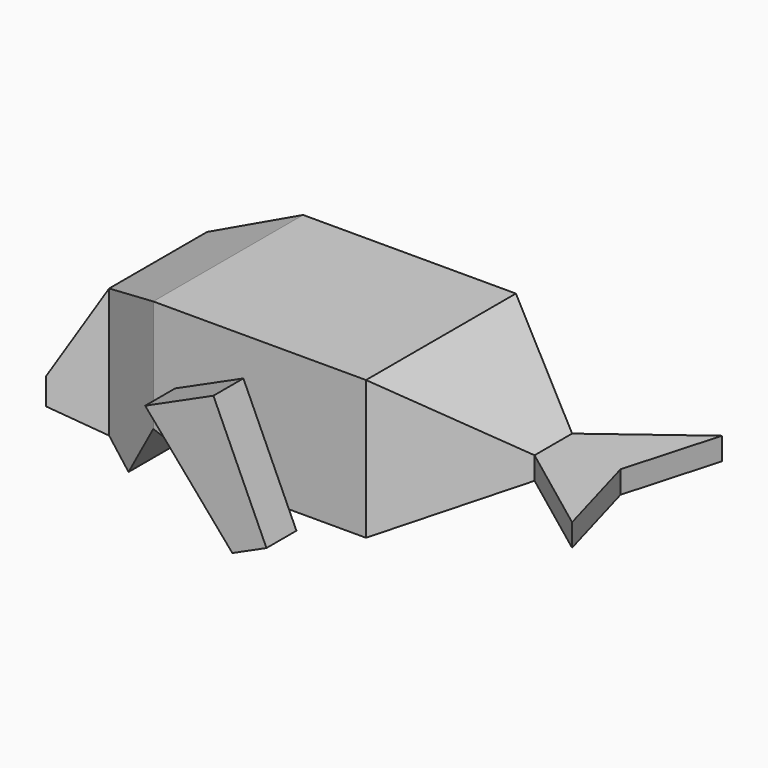
from build123d import *

# Parameters (mm, degrees)
F1_DEPTH  = 25
F2_W      = 220.380068
F2_H      = 103.423982
F3_DEPTH  = 49.4
F6_DEPTH  = 10
F8_DEPTH  = 25
F10_DEPTH = 10
F13_DEPTH = 31.3


with BuildPart() as f1:
    # F0 (on Front) → F1 (new body, symmetric)
    with BuildSketch(Plane.XZ):
        Polygon((18.391414, 18.535092), (-18.391414, 18.535092), (-38.391414, 18.535092), (-57.109501, 11.977759), (-71.366541, -15.086461), (-48.882552, -26.930701), (-38.391414, -11.416442), (-18.391414, -18.535092), (18.391414, -18.535092), (48.391414, -3), (73.391414, -3), (73.391414, 3), (48.391414, 3), align=None)
    extrude(amount=F1_DEPTH, both=True)

    # F2 (on face) → F3 (cut)
    with BuildSketch(Plane.XY.offset(18.535092)):
        with Locations((15.868798, -6.721016)):
            Rectangle(F2_W, F2_H)
        Polygon((-57.109501, -16.336106), (-71.366541, -25), (-71.366541, 25), (-57.109501, 16.336106), (-38.391414, 25), (18.391414, 25), (48.391414, 6.266106), (73.391414, 25), (66.329263, 0), (73.391414, -25), (48.391414, -6.266106), (18.391414, -25), (-38.391414, -25), align=None, mode=Mode.SUBTRACT)
    extrude(amount=-F3_DEPTH, mode=Mode.SUBTRACT)

    # F5 (on face) → F6 (join)
    with BuildSketch(Plane.XZ.offset(25)):
        Polygon((-14.344576, 8.269234), (-32.555006, 0), (-18.391414, -31.190934), (-0.180983, -22.9217), align=None)
    extrude(amount=F6_DEPTH)

    # F7 (on face) → F8 (cut)
    with BuildSketch(Plane.XZ.offset(25)):
        Polygon((-9.286198, -27.056317), (-32.555006, 0), (-27.678248, -47.243599), (-7.968015, -40.131658), align=None)
    extrude(amount=F8_DEPTH, mode=Mode.SUBTRACT)

    # F9 (on face) → F10 (join)
    with BuildSketch(Plane(origin=(0, 25, 0), x_dir=(-1, 0, 0), z_dir=(0, 1, 0))):
        Polygon((9.286198, -27.056317), (32.555006, 0), (14.344576, 8.269234), (0.180983, -22.9217), align=None)
    extrude(amount=F10_DEPTH)

    # F12 (on Front) → F13 (cut, symmetric)
    with BuildSketch(Plane.XZ):
        Polygon((-68.431303, -23.499304), (-68.431303, -4.601866), (-78.38802, -19.232141), align=None)
    extrude(amount=F13_DEPTH, both=True, mode=Mode.SUBTRACT)


solid = f1.part
